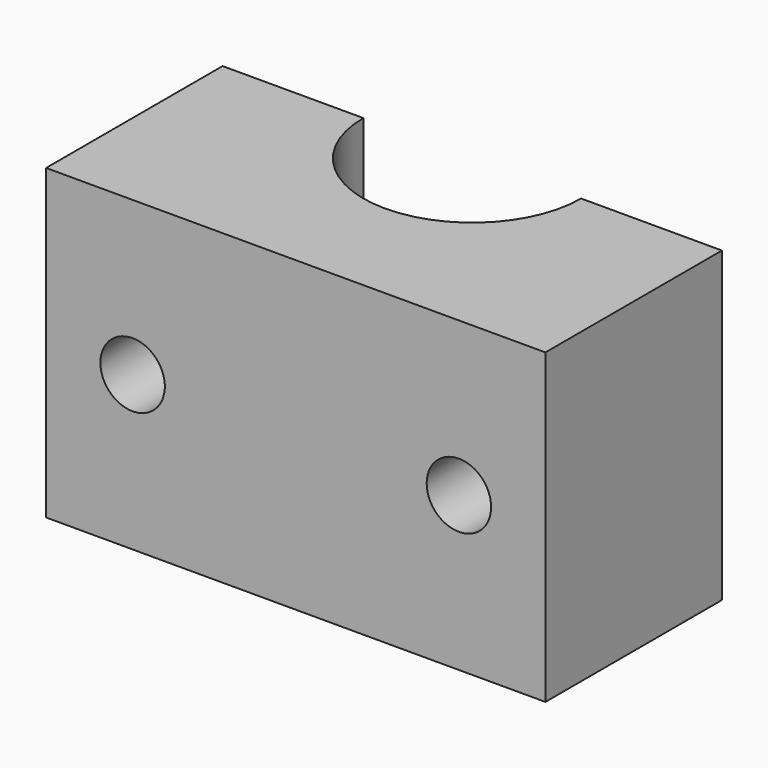
from build123d import *

# Parameters (mm, degrees)
F0_W     = 21.844
F0_H     = 13.462
F1_DEPTH = 9.652
F3_D     = 2.8194
F5_DEPTH = 13.463


with BuildPart() as f1:
    # F0 (on Front) → F1 (new body)
    with BuildSketch(Plane.XZ):
        Rectangle(F0_W, F0_H)
    extrude(amount=F1_DEPTH)

    # F3 (through all)
    with Locations(Plane.XZ.offset(9.652)):
        with Locations((-7.1374, 0), (7.1374, 0)):
            Hole(F3_D / 2)

    # F4 (on face) → F5 (cut, through all)
    with BuildSketch(Plane.XY.offset(6.731)):
        with BuildLine():
            ThreePointArc((-4.7625, 0), (0, -4.7625), (4.7625, 0))
            Line((4.7625, 0), (-4.7625, 0))
        make_face()
    extrude(amount=-F5_DEPTH, mode=Mode.SUBTRACT)


solid = f1.part
